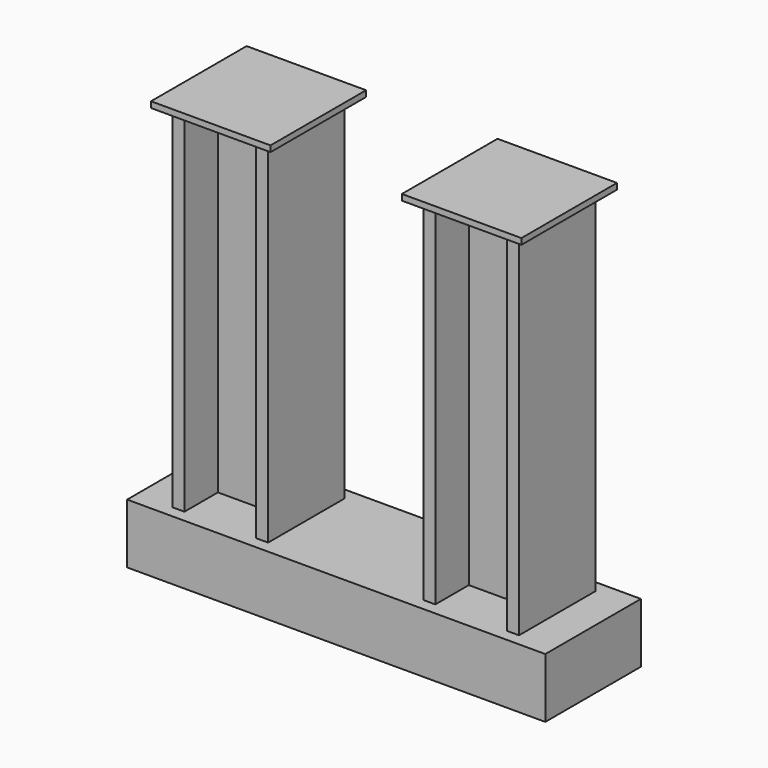
from build123d import *

# Parameters (mm, degrees)
F0_W     = 350
F0_H     = 100
F1_DEPTH = 200
F3_DEPTH = 600
F4_W     = 200
F4_H     = 200
F5_DEPTH = 10


with BuildPart() as f1:
    # F0 (on Front) → F1 (new body)
    with BuildSketch(Plane.XZ):
        with Locations((-175, 50)):
            Rectangle(F0_W, F0_H)
        with Locations((175, 50)):
            Rectangle(F0_W, F0_H)
    extrude(amount=F1_DEPTH)

    # F2 (on face) → F3 (join)
    with BuildSketch(Plane.XY.offset(100)):
        Polygon((-130, -180), (-130, -20), (-150, -20), (-150, -90), (-270, -90), (-270, -20), (-290, -20), (-290, -180), (-270, -180), (-270, -110), (-150, -110), (-150, -180), align=None)
        Polygon((150, -20), (130, -20), (130, -180), (150, -180), (150, -110), (270, -110), (270, -180), (290, -180), (290, -20), (270, -20), (270, -90), (150, -90), align=None)
    extrude(amount=F3_DEPTH)

    # F4 (on face) → F5 (join)
    with BuildSketch(Plane.XY.offset(700)):
        with Locations((210, -100)):
            Rectangle(F4_W, F4_H)
        Polygon((130, -20), (150, -20), (150, -90), (270, -90), (270, -20), (290, -20), (290, -180), (270, -180), (270, -110), (150, -110), (150, -180), (130, -180), align=None, mode=Mode.SUBTRACT)
        Polygon((150, -90), (150, -20), (130, -20), (130, -180), (150, -180), (150, -110), (270, -110), (270, -180), (290, -180), (290, -20), (270, -20), (270, -90), align=None)
        with Locations((-210, -100)):
            Rectangle(F4_W, F4_H)
    extrude(amount=-F5_DEPTH)


solid = f1.part
